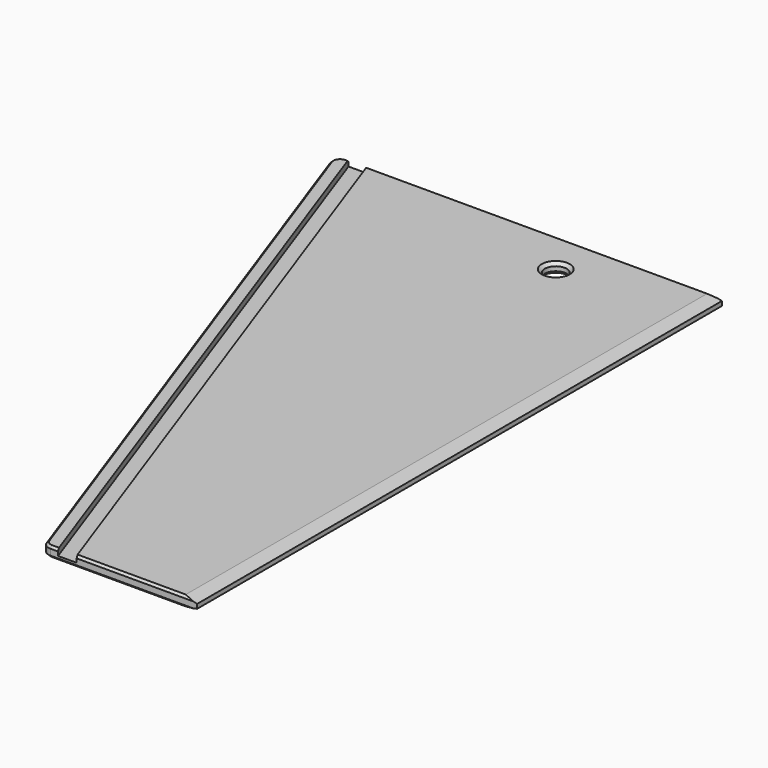
from build123d import *

# Parameters (mm, degrees)
SKETCH_R         = 2.5
PAD_DEPTH        = 2.4
POCKET_START     = -3
SKETCH001_W      = 171.051082
SKETCH001_H      = 1.4
POCKET_DEPTH     = 4
CHAMFER001_SIZE2 = 3
CHAMFER001_SIZE  = 0.7
CHAMFER002_SIZE2 = 3
CHAMFER002_SIZE  = 0.7
FILLET001_R      = 2
CHAMFER003_SIZE  = 0.5
CHAMFER004_SIZE  = 0.7


with BuildPart() as part:
    # Sketch (on Origin) → Pad (new body)
    with BuildSketch(Plane.XY):
        Polygon((-88.571429, 0), (0, 0), (0, -150), (-35, -150), align=None)
        with Locations((-30, -10)):
            Circle(SKETCH_R, mode=Mode.SUBTRACT)
    extrude(amount=PAD_DEPTH)

    # Sketch001 (on Face4 of Pad) → Pocket (cut)
    with BuildSketch(Plane(origin=(-78.552036, -28.054299, 0), x_dir=(0.336336, -0.941742, 0), z_dir=(-0.941742, -0.336336, 0)).offset(POCKET_START)):
        with Locations((55.735746, 1.7)):
            Rectangle(SKETCH001_W, SKETCH001_H)
    extrude(amount=-POCKET_DEPTH, mode=Mode.SUBTRACT)

    # Chamfer001
    chamfer001_edges = [part.edges().sort_by_distance(p)[0] for p in [
        (0, -75, 2.4),
    ]]
    chamfer001_side = part.faces().sort_by_distance((0, -75, 1.2))[0]
    chamfer(chamfer001_edges, length=CHAMFER001_SIZE, length2=CHAMFER001_SIZE2, reference=chamfer001_side)

    # Chamfer002
    chamfer002_edges = [part.edges().sort_by_distance(p)[0] for p in [
        (0, -75, 0),
    ]]
    chamfer002_side = part.faces().sort_by_distance((0, -75, 0.85))[0]
    chamfer(chamfer002_edges, length=CHAMFER002_SIZE, length2=CHAMFER002_SIZE2, reference=chamfer002_side)

    # Fillet001
    fillet001_edges = [part.edges().sort_by_distance(p)[0] for p in [
        (-35, -150, 1.2),
        (-88.571429, 0, 1.2),
    ]]
    fillet(fillet001_edges, radius=FILLET001_R)

    # Chamfer003
    chamfer003_edges = [part.edges().sort_by_distance(p)[0] for p in [
        (-18.295281, -150, 0),
        (-61.545474, -75.672673, 2.4),
        (-42.069197, 0, 2.4),
        (-15.283483, -150, 2.4),
    ]]
    chamfer(chamfer003_edges, length=CHAMFER003_SIZE)

    # Chamfer004
    chamfer004_edges = [part.edges().sort_by_distance(p)[0] for p in [
        (-27.5, -10, 1.2),
        (-32.5, -10, 0),
        (-32.5, -10, 2.4),
    ]]
    chamfer(chamfer004_edges, length=CHAMFER004_SIZE)


solid = part.part
